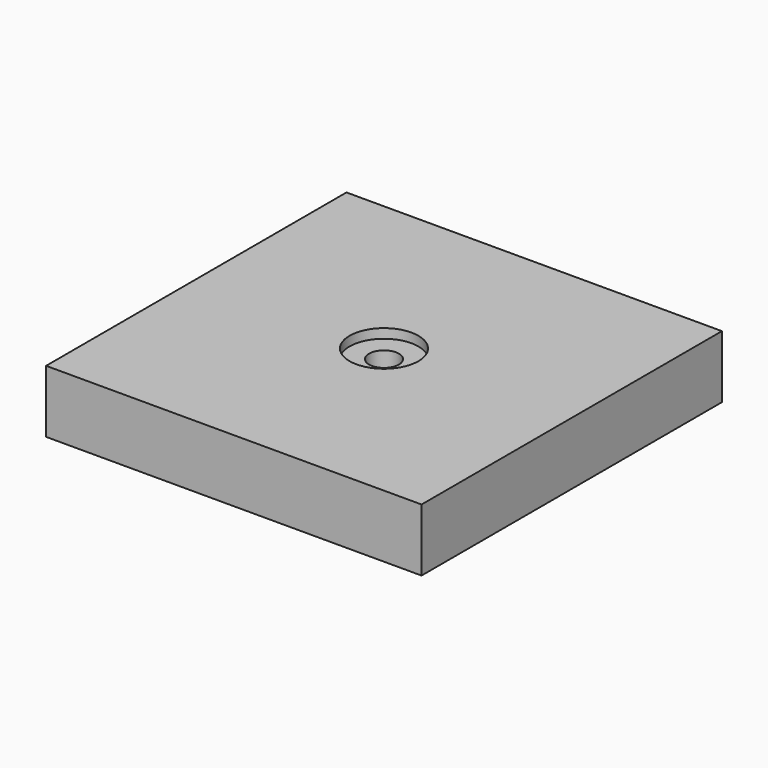
from build123d import *

# Parameters (mm, degrees)
SKETCH_W        = 120
SKETCH_H        = 120
PAD_DEPTH       = 20
SKETCH001_R     = 4.75
POCKET_DEPTH    = 20.001
SKETCH002_R     = 11
POCKET001_DEPTH = 3


with BuildPart() as part:
    # Sketch → Pad (new body)
    with BuildSketch(Plane.XY):
        Rectangle(SKETCH_W, SKETCH_H)
    extrude(amount=PAD_DEPTH)

    # Sketch001 (on Face6 of Pad) → Pocket (cut, through all)
    with BuildSketch(Plane.XY.offset(20)):
        Circle(SKETCH001_R)
    extrude(amount=-POCKET_DEPTH, mode=Mode.SUBTRACT)

    # Sketch002 (on Face5 of Pocket) → Pocket001 (cut)
    with BuildSketch(Plane.XY.offset(20)):
        Circle(SKETCH002_R)
    extrude(amount=-POCKET001_DEPTH, mode=Mode.SUBTRACT)


solid = part.part
